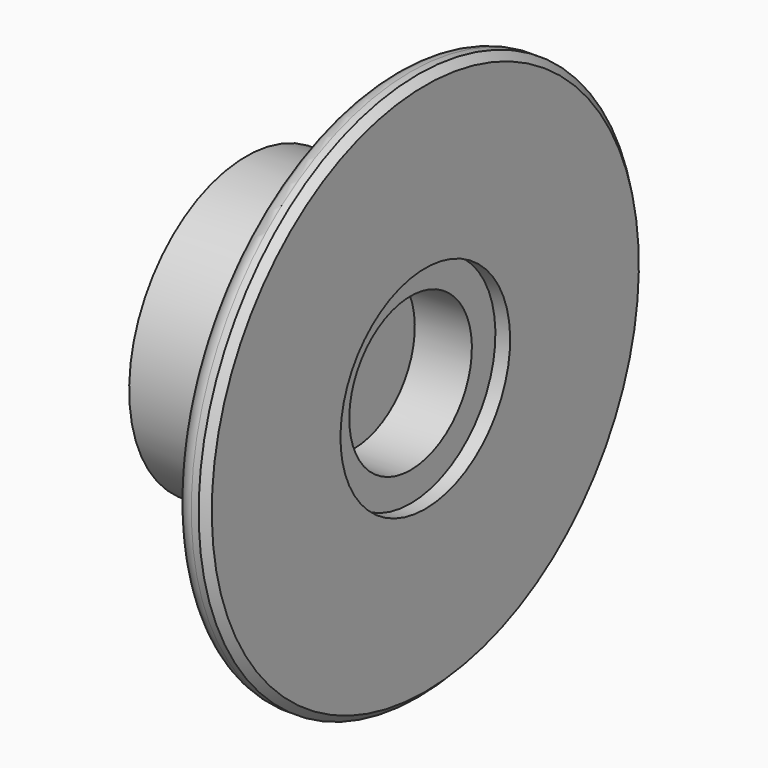
from build123d import *


with BuildPart() as f1:
    # F0 (on Front) → F1 (revolve)
    with BuildSketch(Plane.XZ):
        with BuildLine():
            Line((18.64121, 0), (0, 0))
            Line((0, 0), (0, -25.406862))
            Line((0, -25.406862), (25.393533, -25.406862))
            Line((25.393533, -25.406862), (25.393533, -44.454585))
            ThreePointArc((25.393533, -44.454585), (26.323469, -46.699649), (28.568533, -47.629585))
            Line((28.568533, -47.629585), (29.843302, -47.629585))
            Line((29.843302, -47.629585), (31.11807, -46.364747))
            Line((31.11807, -46.364747), (31.11807, -18.42168))
            Line((31.11807, -18.42168), (28.557492, -18.42168))
            Line((28.557492, -18.42168), (28.557492, -13.31171))
            Line((28.557492, -13.31171), (18.64121, -13.31171))
            Line((18.64121, -13.31171), (18.64121, 0))
        make_face()
    revolve(axis=Axis((9.320605, 0, 0), (-1, 0, 0)))


solid = f1.part
